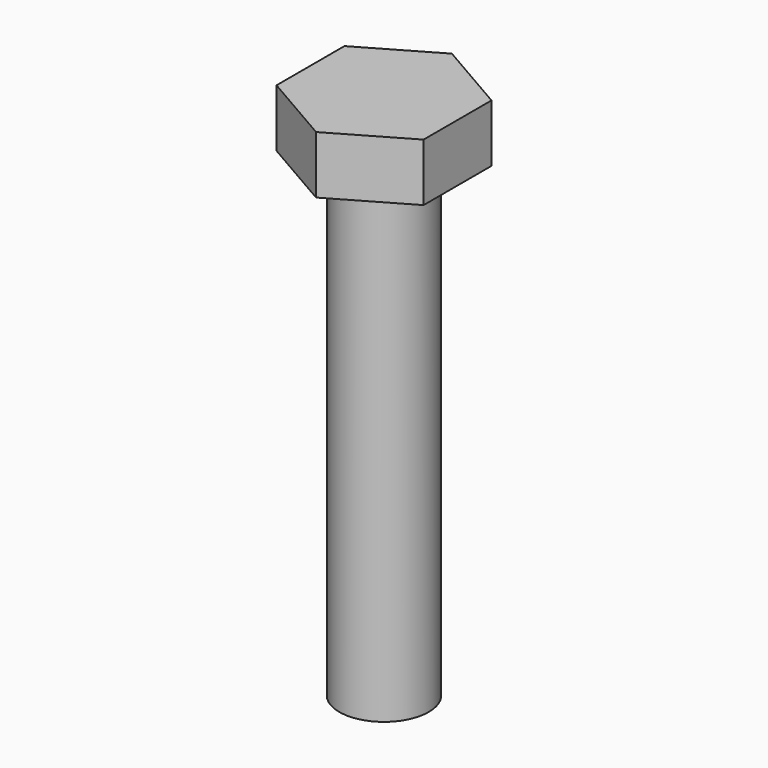
from build123d import *

# Parameters (mm, degrees)
F1_DEPTH = 5
F2_R     = 3.875
F3_DEPTH = 41


with BuildPart() as f1:
    # F0 (on Top) → F1 (new body)
    with BuildSketch(Plane.XY):
        Polygon((6.375, -3.680608), (6.375, 3.680608), (0, 7.361216), (-6.375, 3.680608), (-6.375, -3.680608), (0, -7.361216), align=None)
        Polygon((6.375, -3.680608), (6.375, 3.680608), (0, 7.361216), (-6.375, 3.680608), (-6.375, -3.680608), (0, -7.361216), align=None)
    extrude(amount=F1_DEPTH)

    # F2 (on face) → F3 (join)
    with BuildSketch(Plane(origin=(0, 0, 0), x_dir=(1, 0, 0), z_dir=(0, 0, -1))):
        Circle(F2_R)
    extrude(amount=F3_DEPTH)


solid = f1.part
